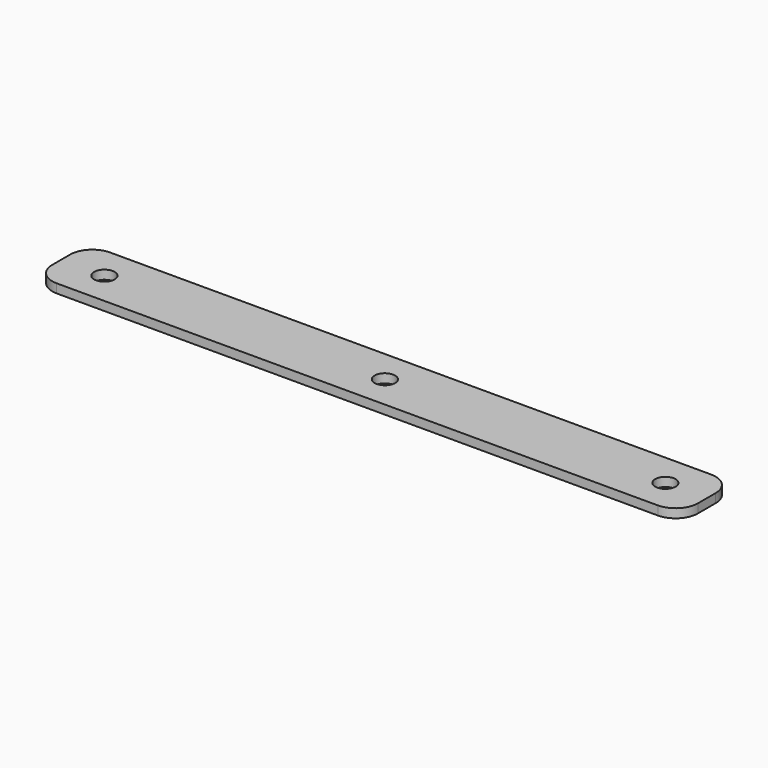
from build123d import *

# Parameters (mm, degrees)
F1_DEPTH = 2
F3_DEPTH = 12.5


with BuildPart() as f1:
    # F0 (on Top) → F1 (new body)
    with BuildSketch(Plane.XY):
        with BuildLine():
            Line((67.5, 0), (-67.5, 0))
            ThreePointArc((-67.5, 0), (-71.0355339059, -1.4644660941), (-72.5, -5))
            Line((-72.5, -5), (-72.5, -10))
            ThreePointArc((-72.5, -10), (-71.0355339059, -13.5355339059), (-67.5, -15))
            Line((-67.5, -15), (67.5, -15))
            ThreePointArc((67.5, -15), (71.0355339059, -13.5355339059), (72.5, -10))
            Line((72.5, -10), (72.5, -5))
            ThreePointArc((72.5, -5), (71.0355339059, -1.4644660941), (67.5, 0))
        make_face()
    extrude(amount=F1_DEPTH)

    # F2 (on face) → F3 (cut, symmetric)
    with BuildSketch(Plane.XY.offset(2)):
        with BuildLine():
            Line((-62.8, -7.5), (-65.1, -7.5))
            ThreePointArc((-65.1, -7.5), (-62.8, -9.8), (-60.5, -7.5))
            Line((-60.5, -7.5), (-62.8, -7.5))
        make_face()
        with BuildLine():
            ThreePointArc((-60.5, -7.5), (-62.8, -5.2), (-65.1, -7.5))
            Line((-65.1, -7.5), (-62.8, -7.5))
            Line((-62.8, -7.5), (-60.5, -7.5))
        make_face()
        with BuildLine():
            ThreePointArc((2.5, -7.5), (0.2, -5.2), (-2.1, -7.5))
            Line((-2.1, -7.5), (0.2, -7.5))
            Line((0.2, -7.5), (2.5, -7.5))
        make_face()
        with BuildLine():
            Line((0.2, -7.5), (-2.1, -7.5))
            ThreePointArc((-2.1, -7.5), (0.2, -9.8), (2.5, -7.5))
            Line((2.5, -7.5), (0.2, -7.5))
        make_face()
        with BuildLine():
            ThreePointArc((65.5, -7.5), (63.2, -5.2), (60.9, -7.5))
            ThreePointArc((60.9, -7.5), (63.2, -9.8), (65.5, -7.5))
        make_face()
    extrude(amount=F3_DEPTH, both=True, mode=Mode.SUBTRACT)


solid = f1.part
